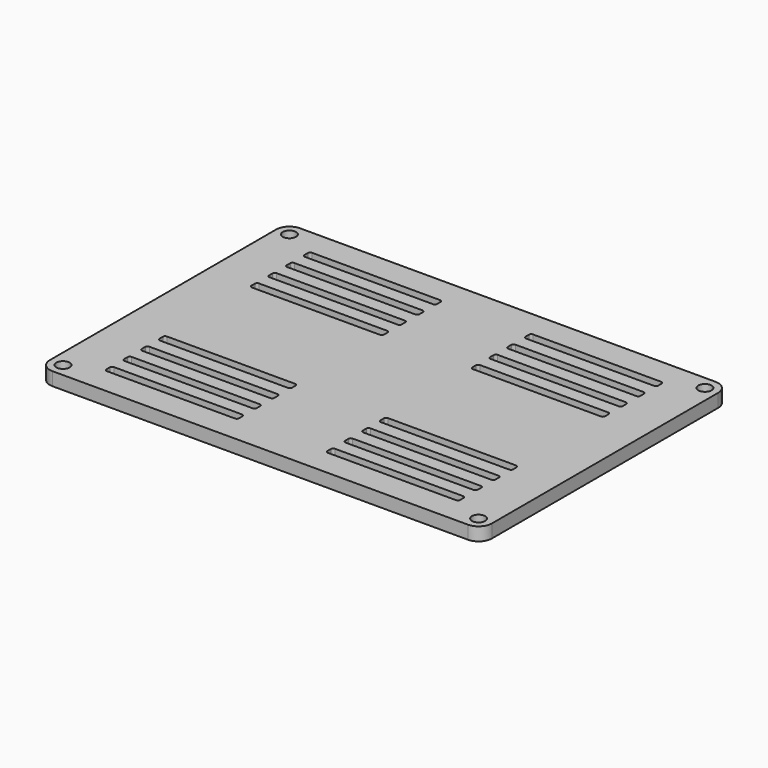
from build123d import *

# Parameters (mm, degrees)
F1_DEPTH = 3
F2_R     = 1.5
F3_DEPTH = 25
F5_DEPTH = 25


with BuildPart() as f1:
    # F0 (on Top) → F1 (new body)
    with BuildSketch(Plane.XY):
        with BuildLine():
            ThreePointArc((0, 3), (0.87868, 0.87868), (3, 0))
            Line((3, 0), (97, 0))
            ThreePointArc((97, 0), (99.12132, 0.87868), (100, 3))
            Line((100, 3), (100, 67))
            ThreePointArc((100, 67), (99.12132, 69.12132), (97, 70))
            Line((97, 70), (3, 70))
            ThreePointArc((3, 70), (0.87868, 69.12132), (0, 67))
            Line((0, 67), (0, 3))
        make_face()
    extrude(amount=F1_DEPTH)

    # F2 (on face) → F3 (cut)
    with BuildSketch(Plane(origin=(0, 0, 0), x_dir=(1, 0, 0), z_dir=(0, 0, -1))):
        with Locations((3, -67)):
            Circle(F2_R)
        with Locations((3, -3)):
            Circle(F2_R)
        with Locations((97, -3)):
            Circle(F2_R)
        with Locations((97, -67)):
            Circle(F2_R)
    extrude(amount=-F3_DEPTH, mode=Mode.SUBTRACT)

    # F4 (on face) → F5 (cut)
    with BuildSketch(Plane(origin=(0, 0, 0), x_dir=(1, 0, 0), z_dir=(0, 0, -1))):
        with BuildLine():
            ThreePointArc((10, -63.5), (10.146447, -63.853553), (10.5, -64))
            Line((10.5, -64), (39.5, -64))
            ThreePointArc((39.5, -64), (39.853553, -63.853553), (40, -63.5))
            Line((40, -63.5), (40, -62.5))
            ThreePointArc((40, -62.5), (39.853553, -62.146447), (39.5, -62))
            Line((39.5, -62), (10.5, -62))
            ThreePointArc((10.5, -62), (10.146447, -62.146447), (10, -62.5))
            Line((10, -62.5), (10, -63.5))
        make_face()
        with BuildLine():
            Line((39.5, -57), (10.5, -57))
            ThreePointArc((10.5, -57), (10.146447, -57.146447), (10, -57.5))
            Line((10, -57.5), (10, -58.5))
            ThreePointArc((10, -58.5), (10.146447, -58.853553), (10.5, -59))
            Line((10.5, -59), (39.5, -59))
            ThreePointArc((39.5, -59), (39.853553, -58.853553), (40, -58.5))
            Line((40, -58.5), (40, -57.5))
            ThreePointArc((40, -57.5), (39.853553, -57.146447), (39.5, -57))
        make_face()
        with BuildLine():
            Line((39.5, -52), (10.5, -52))
            ThreePointArc((10.5, -52), (10.146447, -52.146447), (10, -52.5))
            Line((10, -52.5), (10, -53.5))
            ThreePointArc((10, -53.5), (10.146447, -53.853553), (10.5, -54))
            Line((10.5, -54), (39.5, -54))
            ThreePointArc((39.5, -54), (39.853553, -53.853553), (40, -53.5))
            Line((40, -53.5), (40, -52.5))
            ThreePointArc((40, -52.5), (39.853553, -52.146447), (39.5, -52))
        make_face()
        with BuildLine():
            Line((39.5, -47), (10.5, -47))
            ThreePointArc((10.5, -47), (10.146447, -47.146447), (10, -47.5))
            Line((10, -47.5), (10, -48.5))
            ThreePointArc((10, -48.5), (10.146447, -48.853553), (10.5, -49))
            Line((10.5, -49), (39.5, -49))
            ThreePointArc((39.5, -49), (39.853553, -48.853553), (40, -48.5))
            Line((40, -48.5), (40, -47.5))
            ThreePointArc((40, -47.5), (39.853553, -47.146447), (39.5, -47))
        make_face()
        with BuildLine():
            ThreePointArc((10.5, -6), (10.146447, -6.146447), (10, -6.5))
            Line((10, -6.5), (10, -7.5))
            ThreePointArc((10, -7.5), (10.146447, -7.853553), (10.5, -8))
            Line((10.5, -8), (39.5, -8))
            ThreePointArc((39.5, -8), (39.853553, -7.853553), (40, -7.5))
            Line((40, -7.5), (40, -6.5))
            ThreePointArc((40, -6.5), (39.853553, -6.146447), (39.5, -6))
            Line((39.5, -6), (10.5, -6))
        make_face()
        with BuildLine():
            ThreePointArc((10.5, -21), (10.146447, -21.146447), (10, -21.5))
            Line((10, -21.5), (10, -22.5))
            ThreePointArc((10, -22.5), (10.146447, -22.853553), (10.5, -23))
            Line((10.5, -23), (39.5, -23))
            ThreePointArc((39.5, -23), (39.853553, -22.853553), (40, -22.5))
            Line((40, -22.5), (40, -21.5))
            ThreePointArc((40, -21.5), (39.853553, -21.146447), (39.5, -21))
            Line((39.5, -21), (10.5, -21))
        make_face()
        with BuildLine():
            Line((40, -17.5), (40, -16.5))
            ThreePointArc((40, -16.5), (39.853553, -16.146447), (39.5, -16))
            Line((39.5, -16), (10.5, -16))
            ThreePointArc((10.5, -16), (10.146447, -16.146447), (10, -16.5))
            Line((10, -16.5), (10, -17.5))
            ThreePointArc((10, -17.5), (10.146447, -17.853553), (10.5, -18))
            Line((10.5, -18), (39.5, -18))
            ThreePointArc((39.5, -18), (39.853553, -17.853553), (40, -17.5))
        make_face()
        with BuildLine():
            ThreePointArc((10.5, -11), (10.146447, -11.146447), (10, -11.5))
            Line((10, -11.5), (10, -12.5))
            ThreePointArc((10, -12.5), (10.146447, -12.853553), (10.5, -13))
            Line((10.5, -13), (39.5, -13))
            ThreePointArc((39.5, -13), (39.853553, -12.853553), (40, -12.5))
            Line((40, -12.5), (40, -11.5))
            ThreePointArc((40, -11.5), (39.853553, -11.146447), (39.5, -11))
            Line((39.5, -11), (10.5, -11))
        make_face()
        with BuildLine():
            Line((60.5, -18), (89.5, -18))
            ThreePointArc((89.5, -18), (89.853553, -17.853553), (90, -17.5))
            Line((90, -17.5), (90, -16.5))
            ThreePointArc((90, -16.5), (89.853553, -16.146447), (89.5, -16))
            Line((89.5, -16), (60.5, -16))
            ThreePointArc((60.5, -16), (60.146447, -16.146447), (60, -16.5))
            Line((60, -16.5), (60, -17.5))
            ThreePointArc((60, -17.5), (60.146447, -17.853553), (60.5, -18))
        make_face()
        with BuildLine():
            ThreePointArc((60.5, -62), (60.146447, -62.146447), (60, -62.5))
            Line((60, -62.5), (60, -63.5))
            ThreePointArc((60, -63.5), (60.146447, -63.853553), (60.5, -64))
            Line((60.5, -64), (89.5, -64))
            ThreePointArc((89.5, -64), (89.853553, -63.853553), (90, -63.5))
            Line((90, -63.5), (90, -62.5))
            ThreePointArc((90, -62.5), (89.853553, -62.146447), (89.5, -62))
            Line((89.5, -62), (60.5, -62))
        make_face()
        with BuildLine():
            Line((90, -7.5), (90, -6.5))
            ThreePointArc((90, -6.5), (89.853553, -6.146447), (89.5, -6))
            Line((89.5, -6), (60.5, -6))
            ThreePointArc((60.5, -6), (60.146447, -6.146447), (60, -6.5))
            Line((60, -6.5), (60, -7.5))
            ThreePointArc((60, -7.5), (60.146447, -7.853553), (60.5, -8))
            Line((60.5, -8), (89.5, -8))
            ThreePointArc((89.5, -8), (89.853553, -7.853553), (90, -7.5))
        make_face()
        with BuildLine():
            ThreePointArc((89.5, -59), (89.853553, -58.853553), (90, -58.5))
            Line((90, -58.5), (90, -57.5))
            ThreePointArc((90, -57.5), (89.853553, -57.146447), (89.5, -57))
            Line((89.5, -57), (60.5, -57))
            ThreePointArc((60.5, -57), (60.146447, -57.146447), (60, -57.5))
            Line((60, -57.5), (60, -58.5))
            ThreePointArc((60, -58.5), (60.146447, -58.853553), (60.5, -59))
            Line((60.5, -59), (89.5, -59))
        make_face()
        with BuildLine():
            ThreePointArc((89.5, -49), (89.853553, -48.853553), (90, -48.5))
            Line((90, -48.5), (90, -47.5))
            ThreePointArc((90, -47.5), (89.853553, -47.146447), (89.5, -47))
            Line((89.5, -47), (60.5, -47))
            ThreePointArc((60.5, -47), (60.146447, -47.146447), (60, -47.5))
            Line((60, -47.5), (60, -48.5))
            ThreePointArc((60, -48.5), (60.146447, -48.853553), (60.5, -49))
            Line((60.5, -49), (89.5, -49))
        make_face()
        with BuildLine():
            Line((89.5, -21), (60.5, -21))
            ThreePointArc((60.5, -21), (60.146447, -21.146447), (60, -21.5))
            Line((60, -21.5), (60, -22.5))
            ThreePointArc((60, -22.5), (60.146447, -22.853553), (60.5, -23))
            Line((60.5, -23), (89.5, -23))
            ThreePointArc((89.5, -23), (89.853553, -22.853553), (90, -22.5))
            Line((90, -22.5), (90, -21.5))
            ThreePointArc((90, -21.5), (89.853553, -21.146447), (89.5, -21))
        make_face()
        with BuildLine():
            ThreePointArc((60.5, -11), (60.146447, -11.146447), (60, -11.5))
            Line((60, -11.5), (60, -12.5))
            ThreePointArc((60, -12.5), (60.146447, -12.853553), (60.5, -13))
            Line((60.5, -13), (89.5, -13))
            ThreePointArc((89.5, -13), (89.853553, -12.853553), (90, -12.5))
            Line((90, -12.5), (90, -11.5))
            ThreePointArc((90, -11.5), (89.853553, -11.146447), (89.5, -11))
            Line((89.5, -11), (60.5, -11))
        make_face()
        with BuildLine():
            Line((60, -52.5), (60, -53.5))
            ThreePointArc((60, -53.5), (60.146447, -53.853553), (60.5, -54))
            Line((60.5, -54), (89.5, -54))
            ThreePointArc((89.5, -54), (89.853553, -53.853553), (90, -53.5))
            Line((90, -53.5), (90, -52.5))
            ThreePointArc((90, -52.5), (89.853553, -52.146447), (89.5, -52))
            Line((89.5, -52), (60.5, -52))
            ThreePointArc((60.5, -52), (60.146447, -52.146447), (60, -52.5))
        make_face()
    extrude(amount=-F5_DEPTH, mode=Mode.SUBTRACT)


solid = f1.part
